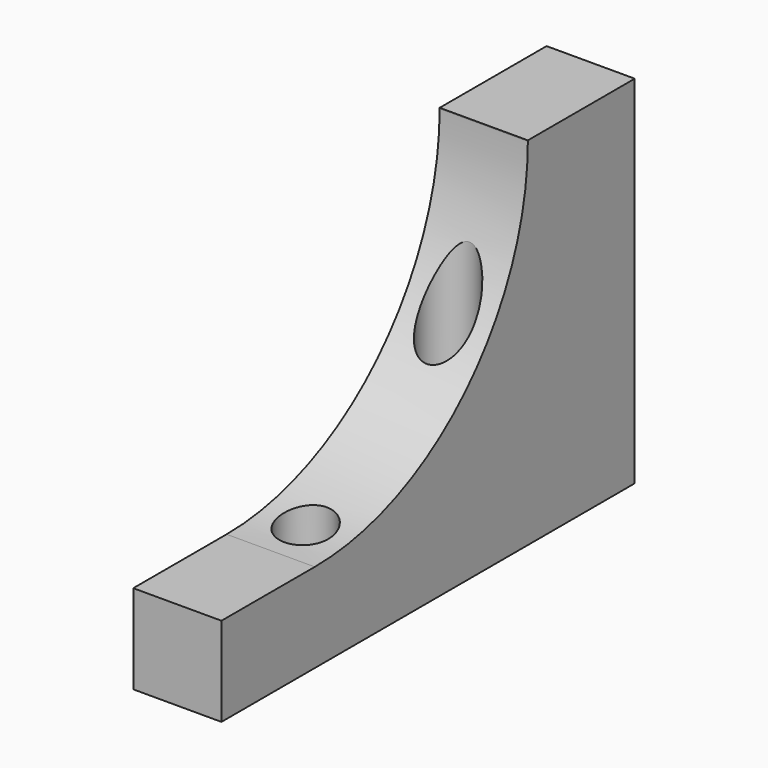
from build123d import *

# Parameters (mm, degrees)
SKETCH_W        = 9.9
SKETCH_H        = 58
PAD_DEPTH       = 40
SKETCH001_W     = 9.9
SKETCH001_H     = 43
POCKET_DEPTH    = 30
FILLET_R        = 29.9
SKETCH002_R     = 3
POCKET001_DEPTH = 34
SKETCH003_R     = 1.9
POCKET002_DEPTH = 6


with BuildPart() as part:
    # Sketch → Pad (new body)
    with BuildSketch(Plane.XY):
        Rectangle(SKETCH_W, SKETCH_H)
    extrude(amount=PAD_DEPTH)

    # Sketch001 (on Face6 of Pad) → Pocket (cut)
    with BuildSketch(Plane.XY.offset(40)):
        with Locations((0, -7.5)):
            Rectangle(SKETCH001_W, SKETCH001_H)
    extrude(amount=-POCKET_DEPTH, mode=Mode.SUBTRACT)

    # Fillet
    fillet_edges = [part.edges().sort_by_distance(p)[0] for p in [
        (0, 14, 10),
    ]]
    fillet(fillet_edges, radius=FILLET_R)

    # Sketch002 (on Face4 of Fillet) → Pocket001 (cut)
    with BuildSketch(Plane.XY.offset(40)):
        with Locations((0, 9)):
            Circle(SKETCH002_R)
        with Locations((0, -11)):
            Circle(SKETCH002_R)
    extrude(amount=-POCKET001_DEPTH, mode=Mode.SUBTRACT)

    # Sketch003 (on Face8 of Pocket001) → Pocket002 (cut)
    with BuildSketch(Plane(origin=(0, 0, 0), x_dir=(1, 0, 0), z_dir=(0, 0, -1))):
        with Locations((0, -9)):
            Circle(SKETCH003_R)
        with Locations((0, 11)):
            Circle(SKETCH003_R)
    extrude(amount=-POCKET002_DEPTH, mode=Mode.SUBTRACT)


solid = part.part
